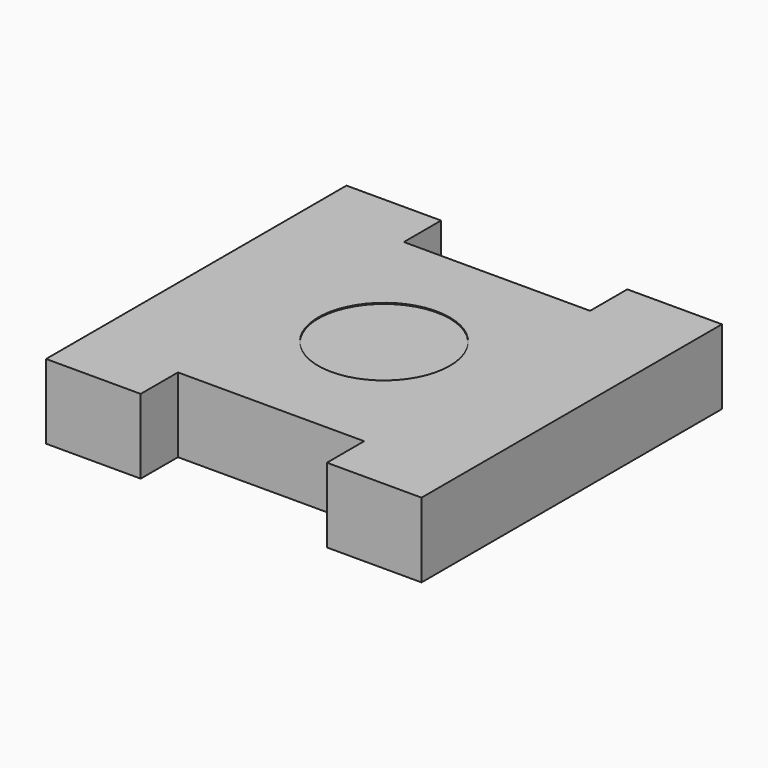
from build123d import *

# Parameters (mm, degrees)
F0_R     = 11.1183318615
F1_DEPTH = 25.4
F2_DEPTH = 12.7
F3_DEPTH = 12.7
F4_DEPTH = 12.7762
F5_DEPTH = 0.508
F6_DEPTH = 11.938


with BuildPart() as f1:
    # F0 (on Top) → F1 (new body)
    with BuildSketch(Plane.XY):
        Polygon((-47.498, 63.5), (-63.5, 63.5), (-63.5, 0), (-47.498, 0), (-47.498, 7.874), (-16.002, 7.874), (-16.002, 0), (0, 0), (0, 63.5), (-16.002, 63.5), (-16.002, 55.626), (-47.498, 55.626), align=None)
        with Locations((-31.75, 31.75)):
            Circle(F0_R, mode=Mode.SUBTRACT)
    extrude(amount=F1_DEPTH)

    # F2 (add): a face of the model
    f2_faces = [f1.faces().sort_by_distance(p)[0] for p in [
        (-55.499, 62.6019743879, 25.4),
    ]]
    extrude(f2_faces, amount=F2_DEPTH)

    # F3 (cut): a face of the model
    f3_faces = [f1.faces().sort_by_distance(p)[0] for p in [
        (-55.499, 62.6019743879, 38.1),
    ]]
    extrude(f3_faces, amount=-F3_DEPTH, mode=Mode.SUBTRACT)

    # F4 (cut): a face of the model
    f4_faces = [f1.faces().sort_by_distance(p)[0] for p in [
        (-55.499, 62.6019743879, 25.4),
    ]]
    extrude(f4_faces, amount=-F4_DEPTH, mode=Mode.SUBTRACT)

    # F0 (on Top) → F5 (join)
    with BuildSketch(Plane.XY):
        with Locations((-31.75, 31.75)):
            Circle(F0_R)
    extrude(amount=F5_DEPTH)

    # F6 (add): a face of the model
    f6_faces = [f1.faces().sort_by_distance(p)[0] for p in [
        (-31.75, 31.75, 0.508),
    ]]
    extrude(f6_faces, amount=F6_DEPTH)


solid = f1.part
